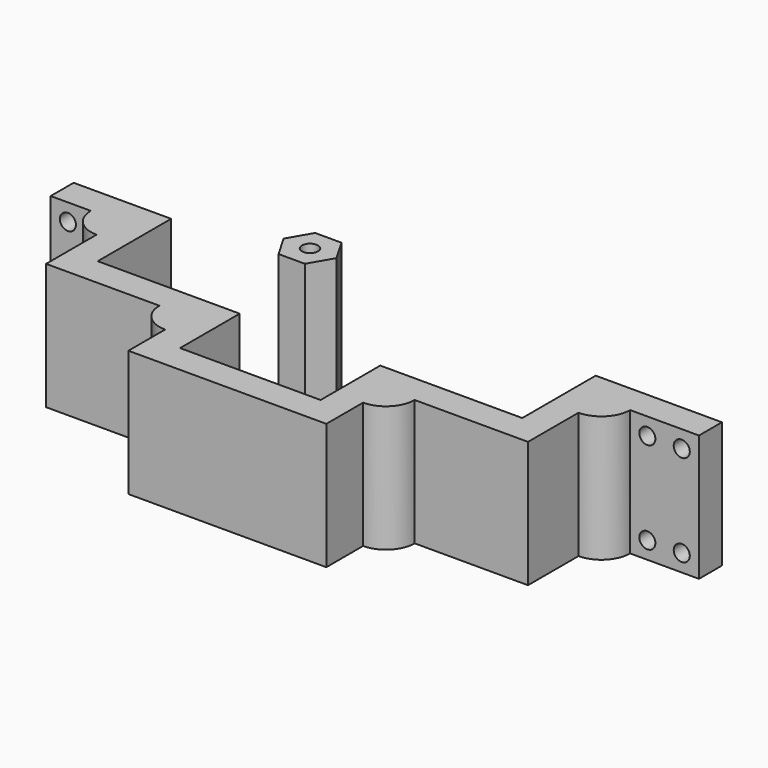
from build123d import *

# Parameters (mm, degrees)
SKETCH_R        = 7
PAD_DEPTH       = 7
SKETCH001_R     = 1.4
PAD001_DEPTH    = 36
POCKET_DEPTH    = 5
SKETCH006_W     = 22
SKETCH006_H     = 22
SKETCH006_R     = 1.4
PAD003_DEPTH    = 5
PAD002_DEPTH    = 22
SKETCH005_R     = 1.4
POCKET001_DEPTH = 16.001


with BuildPart() as body:
    # Sketch → Pad (new body)
    with BuildSketch(Plane.XY):
        Circle(SKETCH_R)
    extrude(amount=PAD_DEPTH)

    # Sketch001 → Pad001 (join)
    with BuildSketch(Plane.XY):
        Polygon((4.6, 0), (2.3, 3.983717), (-2.3, 3.983717), (-4.6, 0), (-2.3, -3.983717), (2.3, -3.983717), align=None)
        Circle(SKETCH001_R, mode=Mode.SUBTRACT)
    extrude(amount=PAD001_DEPTH)

    # Sketch002 → Pocket (cut)
    with BuildSketch(Plane.XY):
        Polygon((4.965, 0), (2.4825, 4.299816), (-2.4825, 4.299816), (-4.965, 0), (-2.4825, -4.299816), (2.4825, -4.299816), align=None)
    extrude(amount=POCKET_DEPTH, mode=Mode.SUBTRACT)

    # Sketch003 → Revolution (revolve)
    with BuildSketch(Plane.YZ):
        Polygon((1, 8.5), (1, 7), (7, 7), align=None)
    revolve(axis=Axis((0, 0, 0), (0, 0, 1)))


with BuildPart() as body001rearsecure:
    # Sketch006 → Pad003 (new body)
    with BuildSketch(Plane.XY):
        with Locations((11, 11)):
            Rectangle(SKETCH006_W, SKETCH006_H)
        with Locations((3, 19)):
            Circle(SKETCH006_R, mode=Mode.SUBTRACT)
        with Locations((3, 3)):
            Circle(SKETCH006_R, mode=Mode.SUBTRACT)
    extrude(amount=PAD003_DEPTH)


with BuildPart() as body002:
    # Sketch004 → Pad002 (new body)
    with BuildSketch(Plane.XY):
        with BuildLine():
            Line((-37, 0), (-12.25, 0))
            Line((-12.25, -13), (-12.25, 0))
            Line((-12.25, -13), (12.25, -13))
            Line((12.25, -13), (12.25, 0))
            Line((12.25, 0), (37, 0))
            Line((37, 0), (37, 16))
            Line((37, 16), (59, 16))
            Line((59, 16), (59, 11))
            Line((47, 11), (59, 11))
            ThreePointArc((42, 6), (45.535534, 7.464466), (47, 11))
            Line((42, -5), (42, 6))
            Line((42, -5), (22.25, -5))
            ThreePointArc((17.25, -10), (20.785534, -8.535534), (22.25, -5))
            Line((17.25, -10), (17.25, -18))
            Line((-17.25, -18), (17.25, -18))
            Line((-17.25, -10), (-17.25, -18))
            ThreePointArc((-22.25, -5), (-20.785534, -8.535534), (-17.25, -10))
            Line((-42, -5), (-22.25, -5))
            Line((-42, -5), (-42, 6))
            ThreePointArc((-47, 11), (-45.535534, 7.464466), (-42, 6))
            Line((-47, 11), (-54, 11))
            Line((-54, 16), (-54, 11))
            Line((-37, 16), (-54, 16))
            Line((-37, 0), (-37, 16))
        make_face()
    extrude(amount=PAD002_DEPTH)

    # Sketch005 → Pocket001 (cut, through all)
    with BuildSketch(Plane.XZ):
        with Locations((-51, 19)):
            Circle(SKETCH005_R)
        with Locations((-51, 3)):
            Circle(SKETCH005_R)
        with Locations((56, 19)):
            Circle(SKETCH005_R)
        with Locations((56, 3)):
            Circle(SKETCH005_R)
        with Locations((50, 19)):
            Circle(SKETCH005_R)
        with Locations((50, 3)):
            Circle(SKETCH005_R)
    extrude(amount=-POCKET001_DEPTH, mode=Mode.SUBTRACT)


solid = Compound([body.part, body001rearsecure.part, body002.part])
